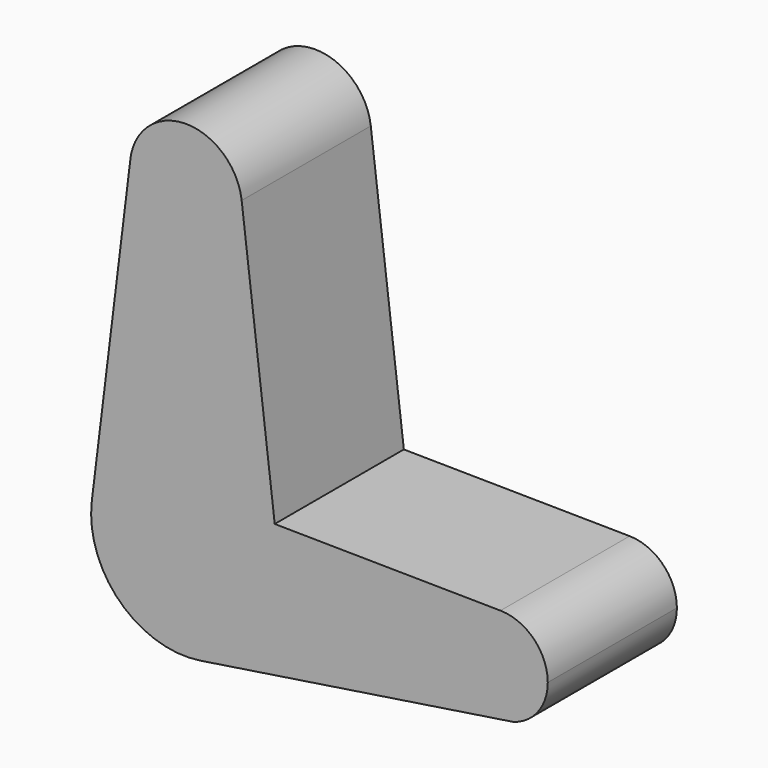
from build123d import *

# Parameters (mm, degrees)
F1_DEPTH = 25


with BuildPart() as f1:
    # F0 (on Front) → F1 (new body)
    with BuildSketch(Plane.XZ):
        with BuildLine():
            Line((13.74659, 7.85846), (8.625084, 50.304803))
            ThreePointArc((8.625084, 50.304803), (-0.198572, 57.949485), (-8.663633, 49.909534))
            Line((-8.663633, 49.909534), (-14.584756, 1.794839))
            ThreePointArc((-14.584756, 1.794839), (-10.238037, -10.541307), (2.219706, -14.526164))
            Line((2.219706, -14.526164), (48.765101, -7.413681))
            ThreePointArc((48.765101, -7.413681), (41.209057, -0.023461), (48.718184, 7.414425))
            Line((48.718184, 7.414425), (13.74659, 7.85846))
        make_face()
        with BuildLine():
            ThreePointArc((56.039065, 0), (53.900434, 5.209822), (48.718184, 7.414425))
            ThreePointArc((48.718184, 7.414425), (41.209057, -0.023461), (48.765101, -7.413681))
            Line((48.765101, -7.413681), (50.703455, -7.117486))
            ThreePointArc((50.703455, -7.117486), (54.557062, -4.447677), (56.039065, 0))
        make_face()
    extrude(amount=F1_DEPTH)


solid = f1.part
